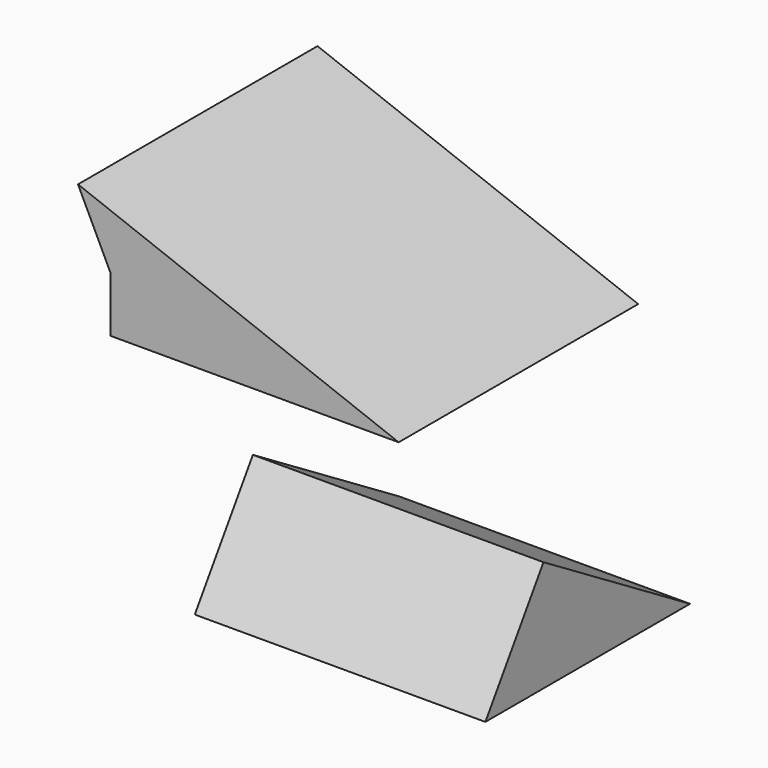
from build123d import *

# Parameters (mm, degrees)
F2_DEPTH = 115.181601
F3_DEPTH = 111.793676


with BuildPart() as f2:
    # F0 (on Front) → F2 (new body)
    with BuildSketch(Plane.XZ):
        Polygon((-54.001063, 58.300436), (-54.001063, 36.870077), (56.923315, 36.870077), (-66.448763, 84.126808), align=None)
    extrude(amount=-F2_DEPTH)


with BuildPart() as f3:
    # F1 (on Right) → F3 (new body)
    with BuildSketch(Plane.YZ):
        Polygon((71.510732, -29.060781), (1.042559, 13.681988), (-26.888143, -29.060781), align=None)
    extrude(amount=F3_DEPTH)


solid = Compound([f2.part, f3.part])
